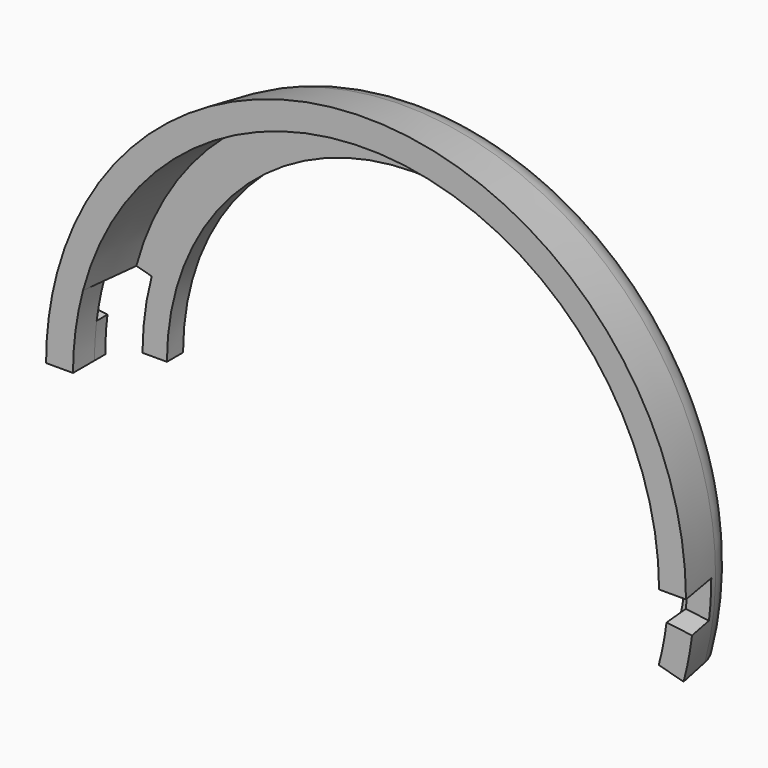
from build123d import *

# Parameters (mm, degrees)
F2_R      = 3
F4_DEPTH  = 25
F6_DEPTH  = 3
F8_DEPTH  = 1
F10_DEPTH = 2
F12_DEPTH = 1


with BuildPart() as f1:
    # F0 (on Top) → F1 (revolve)
    with BuildSketch(Plane.XY):
        Polygon((22.73917, 6), (18.4, 6), (18.4, 4.5), (21.4, 4.5), (21.780392, 0), (23.780392, 0), align=None)
    revolve(axis=Axis((0, -6.541598, 0), (0, -1, 0)))

    # F2
    f2_edges = [f1.edges().sort_by_distance(p)[0] for p in [
        (-22.73917, 6, 0),
    ]]
    fillet(f2_edges, radius=F2_R)

    # F3 (on Front) → F4 (cut)
    with BuildSketch(Plane.XZ):
        with BuildLine():
            Line((-19.526136, 5.232012), (-26.635874, 7.137061))
            Line((-26.635874, 7.137061), (-26.635874, -27.709961))
            Line((-26.635874, -27.709961), (26.774354, -27.709961))
            Line((26.774354, -27.709961), (26.774354, -7.174167))
            Line((26.774354, -7.174167), (19.526136, -5.232012))
            ThreePointArc((19.526136, -5.232012), (20.042002, -2.63858), (20.214944, 0))
            Line((20.214944, 0), (0, 0))
            Line((0, 0), (-20.214944, 0))
            ThreePointArc((-20.214944, 0), (-20.042002, 2.63858), (-19.526136, 5.232012))
        make_face()
    extrude(amount=-F4_DEPTH, mode=Mode.SUBTRACT)

    # F5 (on face) → F6 (cut)
    with BuildSketch(Plane.XZ):
        Polygon((23.791576, 0), (0, 0), (24.133846, -2.963264), align=None)
    extrude(amount=-F6_DEPTH, mode=Mode.SUBTRACT)

    # F7 (on face) → F8 (cut)
    with BuildSketch(Plane.XZ):
        Polygon((18.745828, -1.714997), (18.028688, -5.949548), (23.595072, -7.725327), (24.278065, -2.466288), align=None)
    extrude(amount=-F8_DEPTH, mode=Mode.SUBTRACT)

    # F9 (on face) → F10 (join)
    with BuildSketch(Plane.XZ):
        with BuildLine():
            Line((-21.038243, 5.63718), (-22.970095, 6.154818))
            ThreePointArc((-22.970095, 6.154818), (-23.576948, 3.103964), (-23.780392, 0))
            Line((-23.780392, 0), (-21.780392, 0))
            ThreePointArc((-21.780392, 0), (-21.594058, 2.842912), (-21.038243, 5.63718))
        make_face()
    extrude(amount=-F10_DEPTH)

    # F11 (on face) → F12 (join)
    with BuildSketch(Plane(origin=(0, 2, 0), x_dir=(-1, 0, 0), z_dir=(0, 1, 0))):
        with BuildLine():
            Line((21.780392, 0), (23.780392, 0))
            ThreePointArc((23.780392, 0), (23.736037, 1.451758), (23.603137, 2.898101))
            Line((23.603137, 2.898101), (21.618044, 2.654362))
            ThreePointArc((21.618044, 2.654362), (21.739767, 1.329661), (21.780392, 0))
        make_face()
    extrude(amount=F12_DEPTH)


solid = f1.part
